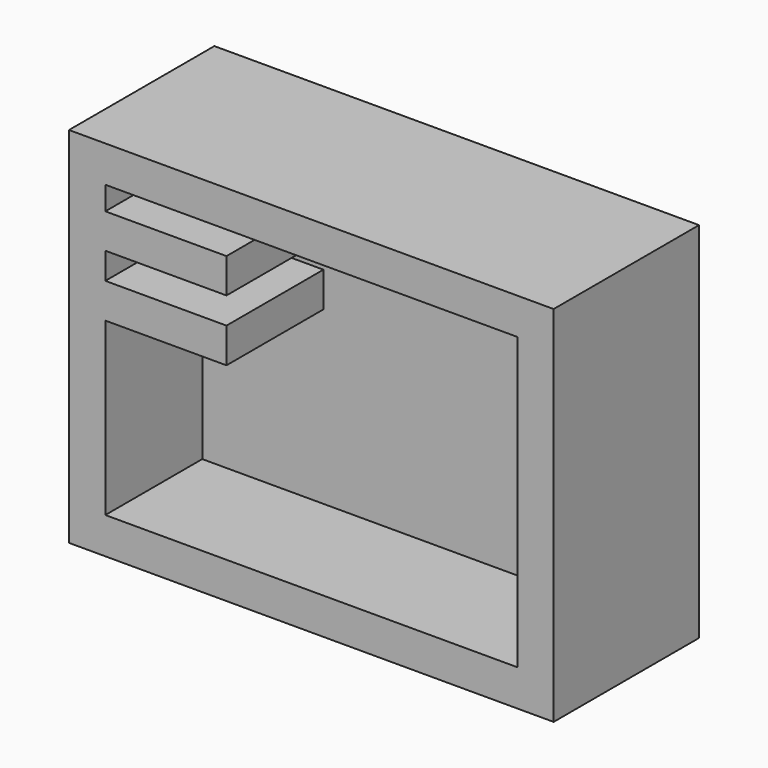
from build123d import *

# Parameters (mm, degrees)
F0_W     = 101.6
F0_H     = 76.2
F0_W_2   = 86.36
F0_H_2   = 60.96
F1_DEPTH = 38.1
F2_DEPTH = 12.7
F3_W     = 25.4
F3_H     = 7.263597
F4_DEPTH = 25.4
F5_W     = 25.4
F5_H     = 7.33001
F6_DEPTH = 25.4


with BuildPart() as f1:
    # F0 (on Front) → F1 (new body)
    with BuildSketch(Plane.XZ):
        with Locations((-18.985149, -0.786755)):
            Rectangle(F0_W, F0_H)
        with Locations((-18.985149, -0.786755)):
            Rectangle(F0_W_2, F0_H_2, mode=Mode.SUBTRACT)
    extrude(amount=F1_DEPTH)

    # F0 (on Front) → F2 (join)
    with BuildSketch(Plane.XZ):
        with Locations((-18.985149, -0.786755)):
            Rectangle(F0_W_2, F0_H_2)
    extrude(amount=F2_DEPTH)

    # F3 (on face) → F4 (join)
    with BuildSketch(Plane.YZ.offset(-62.165149)):
        with Locations((-25.4, 21.148253)):
            Rectangle(F3_W, F3_H)
    extrude(amount=F4_DEPTH)

    # F5 (on face) → F6 (join)
    with BuildSketch(Plane.YZ.offset(-62.165149)):
        with Locations((-25.4, 8.285583)):
            Rectangle(F5_W, F5_H)
    extrude(amount=F6_DEPTH)


solid = f1.part
